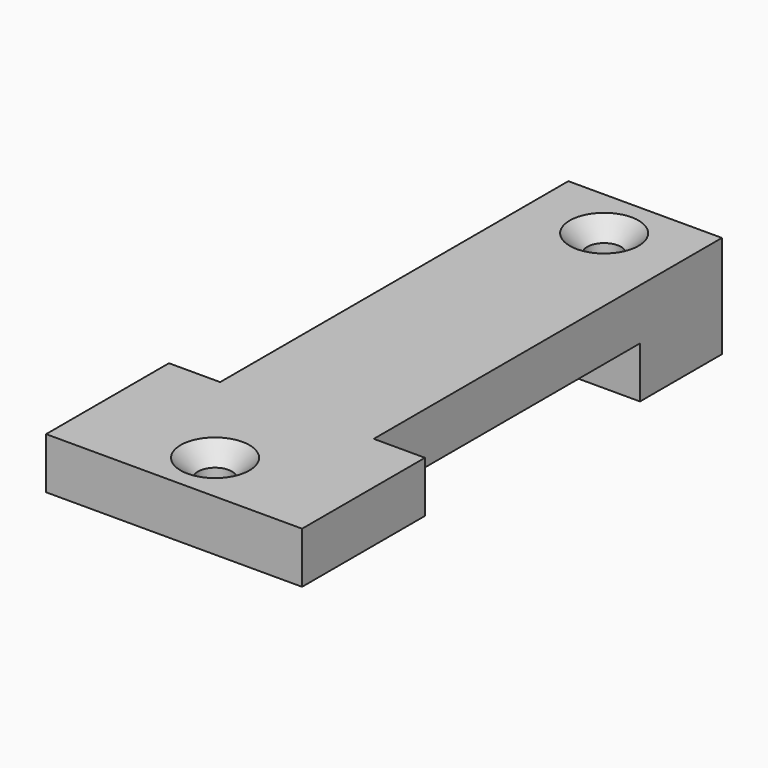
from build123d import *

# Parameters (mm, degrees)
F1_DEPTH       = 15
F2_W           = 50
F2_H           = 10
F3_DEPTH       = 30
F5_D           = 6.6
F5_DEPTH       = 20
F5_CSINK_D     = 13.44
F5_CSINK_ANGLE = 90
F5_TIP         = 1.9828400428
F7_D           = 6.6
F7_DEPTH       = 10
F7_CSINK_D     = 13.44
F7_CSINK_ANGLE = 90
F7_TIP         = 1.9828400428


with BuildPart() as f1:
    # F0 (on Right) → F1 (new body, symmetric)
    with BuildSketch(Plane.YZ):
        Polygon((10, -10), (10, 10), (-10, 10), (-75, 10), (-75, 0), (-10, 0), (-10, -10), align=None)
    extrude(amount=F1_DEPTH, both=True)

    # F2 (on face) → F3 (join)
    with BuildSketch(Plane.XZ.offset(75)):
        with Locations((0, 5)):
            Rectangle(F2_W, F2_H)
    extrude(amount=F3_DEPTH)

    # F5
    with Locations(Plane.XY.offset(10)):
        with Locations((0, 0)):
            CounterSinkHole(F5_D / 2, F5_CSINK_D / 2, depth=F5_DEPTH, counter_sink_angle=F5_CSINK_ANGLE)
            with Locations((0, 0, -(F5_DEPTH + F5_TIP / 2))):  # 118° drill point
                Cone(0, F5_D / 2, F5_TIP, mode=Mode.SUBTRACT)

    # F7
    with Locations(Plane.XY.offset(10)):
        with Locations((0, -95)):
            CounterSinkHole(F7_D / 2, F7_CSINK_D / 2, depth=F7_DEPTH, counter_sink_angle=F7_CSINK_ANGLE)
            with Locations((0, 0, -(F7_DEPTH + F7_TIP / 2))):  # 118° drill point
                Cone(0, F7_D / 2, F7_TIP, mode=Mode.SUBTRACT)


solid = f1.part
